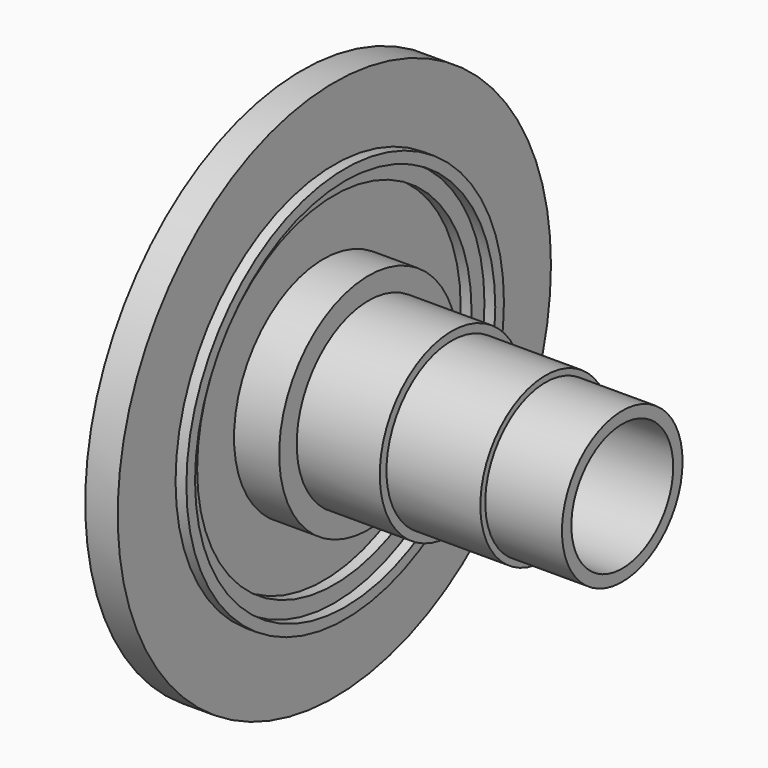
from build123d import *

# Parameters (mm, degrees)
F0_R           = 75
F1_DEPTH       = 9
F2_R           = 54.975
F2_R_2         = 51.975
F3_DEPTH       = 3
F4_R           = 47.5
F5_DEPTH       = 3
F6_R           = 54.975
F7_DEPTH       = 6
F8_R           = 30.975
F9_DEPTH       = 12.5
F10_R          = 24.9
F11_DEPTH      = 23
F12_R          = 22.575
F13_DEPTH      = 26
F14_R          = 20.875
F15_DEPTH      = 21.25
F16_R          = 27.5
F17_DEPTH      = 13.5
F18_R          = 16.825
F19_DEPTH      = 19.501
F19_DEPTH_BACK = 88.751
F20_R          = 17.625
F21_DEPTH      = 122


with BuildPart() as f1:
    # F0 (on Right) → F1 (new body)
    with BuildSketch(Plane.YZ):
        Circle(F0_R)
    extrude(amount=F1_DEPTH)

    # F2 (on face) → F3 (join)
    with BuildSketch(Plane.YZ.offset(9)):
        Circle(F2_R)
        Circle(F2_R_2, mode=Mode.SUBTRACT)
    extrude(amount=F3_DEPTH)

    # F4 (on face) → F5 (cut)
    with BuildSketch(Plane.YZ.offset(9)):
        Circle(F4_R)
    extrude(amount=-F5_DEPTH, mode=Mode.SUBTRACT)

    # F6 (on face) → F7 (join)
    with BuildSketch(Plane(origin=(0, 0, 0), x_dir=(0, -1, 0), z_dir=(-1, 0, 0))):
        Circle(F6_R)
    extrude(amount=F7_DEPTH)

    # F8 (on face) → F9 (join)
    with BuildSketch(Plane.YZ.offset(6)):
        Circle(F8_R)
    extrude(amount=F9_DEPTH)

    # F10 (on face) → F11 (join)
    with BuildSketch(Plane.YZ.offset(18.5)):
        Circle(F10_R)
    extrude(amount=F11_DEPTH)

    # F12 (on face) → F13 (join)
    with BuildSketch(Plane.YZ.offset(41.5)):
        Circle(F12_R)
    extrude(amount=F13_DEPTH)

    # F14 (on face) → F15 (join)
    with BuildSketch(Plane.YZ.offset(67.5)):
        Circle(F14_R)
    extrude(amount=F15_DEPTH)

    # F16 (on face) → F17 (join)
    with BuildSketch(Plane(origin=(-6, 0, 0), x_dir=(0, -1, 0), z_dir=(-1, 0, 0))):
        Circle(F16_R)
    extrude(amount=F17_DEPTH)

    # F18 (on Right) → F19 (cut, two sides)
    with BuildSketch(Plane.YZ) as f19_sk:
        Circle(F18_R)
    extrude(amount=-F19_DEPTH, mode=Mode.SUBTRACT)
    extrude(f19_sk.sketch, amount=-F19_DEPTH_BACK, mode=Mode.SUBTRACT)

    # F20 (on face) → F21 (cut)
    with BuildSketch(Plane.YZ.offset(88.75)):
        Circle(F20_R)
    extrude(amount=-F21_DEPTH, mode=Mode.SUBTRACT)


solid = f1.part
